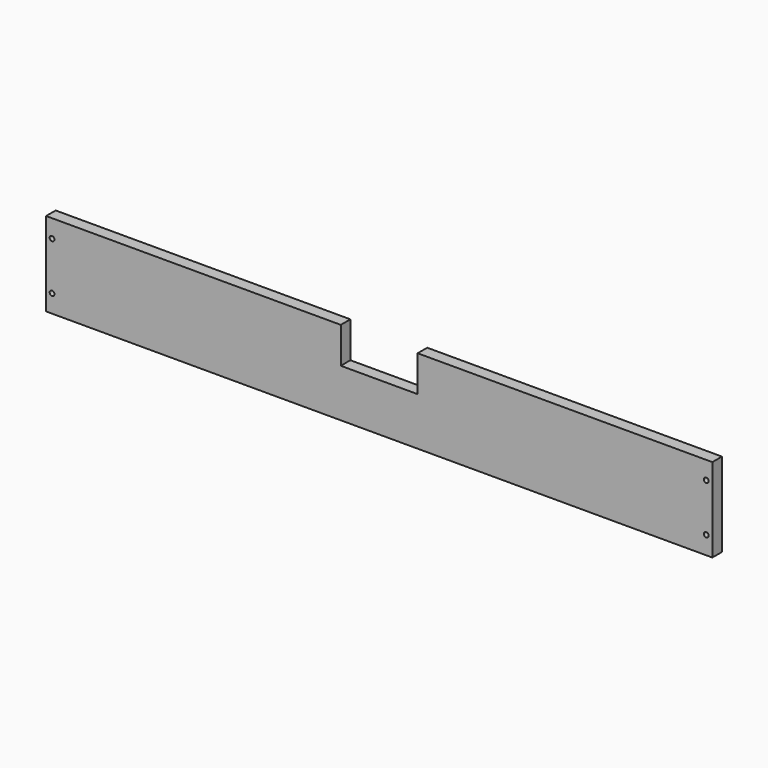
from build123d import *

# Parameters (mm, degrees)
F0_R     = 2
F1_DEPTH = 10
F2_R     = 2
F3_DEPTH = 15


with BuildPart() as f1:
    # F0 (on Front) → F1 (new body)
    with BuildSketch(Plane.XZ):
        Polygon((-32, 68.609319), (-277.5, 68.609319), (-277.5, -1.390681), (277.5, -1.390681), (277.5, 68.609319), (32, 68.609319), (32, 38.609319), (0, 38.609319), (-32, 38.609319), align=None)
        with Locations((-272.5, 13.609319)):
            Circle(F0_R, mode=Mode.SUBTRACT)
        with Locations((272.5, 13.609319)):
            Circle(F0_R, mode=Mode.SUBTRACT)
        with Locations((-272.5, 53.609319)):
            Circle(F0_R, mode=Mode.SUBTRACT)
        with Locations((272.5, 53.609319)):
            Circle(F0_R, mode=Mode.SUBTRACT)
    extrude(amount=F1_DEPTH)

    # F2 (on face) → F3 (cut)
    with BuildSketch(Plane(origin=(0, 0, -1.390681), x_dir=(1, 0, 0), z_dir=(0, 0, -1))):
        with Locations((-8, 5)):
            Circle(F2_R)
        with Locations((8, 5)):
            Circle(F2_R)
    extrude(amount=-F3_DEPTH, mode=Mode.SUBTRACT)


solid = f1.part
